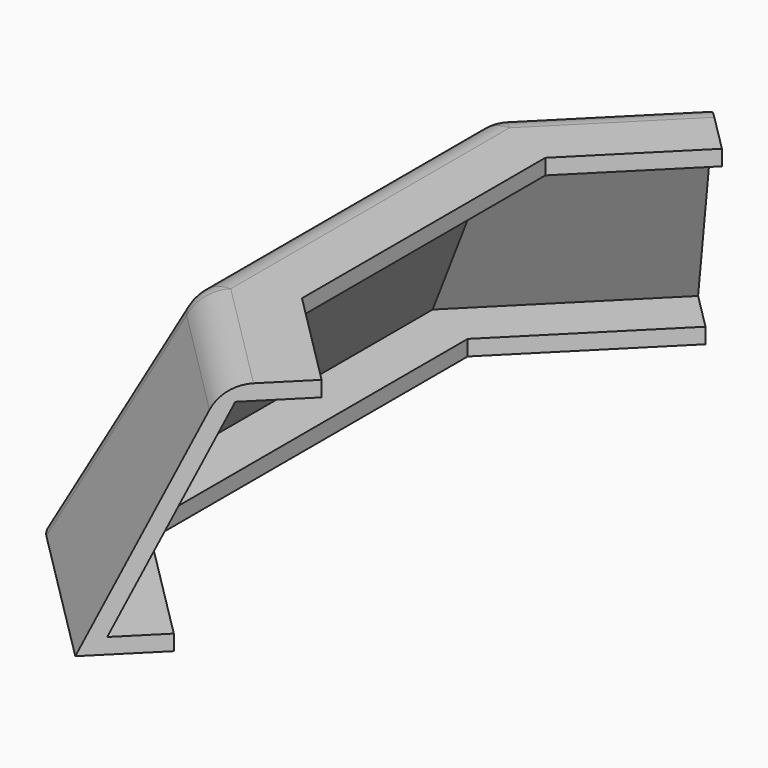
from build123d import *

# Parameters (mm, degrees)
F3_R = 5


with BuildPart() as f2:
    # F2: sweep along a path in F0
    with BuildLine(Plane.XY) as f2_path:
        Line((0, -50), (-20, -30))
        Line((-20, -30), (-20, 30))
        Line((-20, 30), (0, 50))
    # F1 (on Front) → F2 (sweep)
    with BuildSketch(Plane.XZ):
        Polygon((-20, 0), (-10, 0), (-10, 2), (-16.7639320225, 2), (-3.7639320225, 28), (5, 28), (5, 30), (-5, 30), align=None)
    sweep(path=f2_path.line, transition=Transition.RIGHT)

    # F3
    f3_edges = [f2.edges().sort_by_distance(p)[0] for p in [
        (-5, 0, 30),
        (2.803301, 31.590097, 30),
        (2.803301, -31.590097, 30),
        (-12.5, -26.893398, 15),
        (-12.5, 26.893398, 15),
    ]]
    fillet(f3_edges, radius=F3_R)


solid = f2.part
